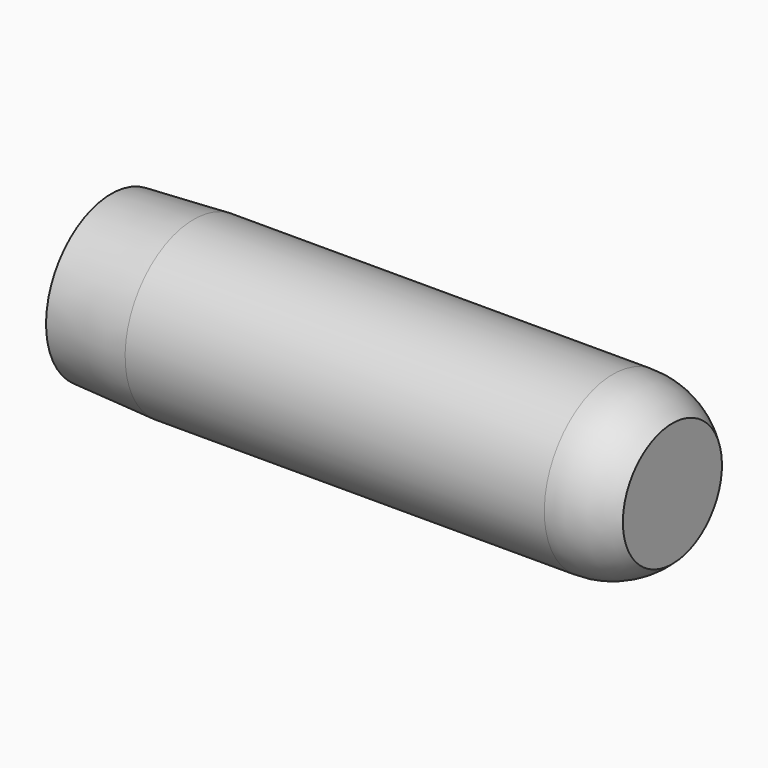
from build123d import *

# Parameters (mm, degrees)
F2_R     = 10.5
F3_DEPTH = 110


with BuildPart() as f1:
    # F0 (on Front) → F1 (revolve)
    with BuildSketch(Plane.XZ):
        with BuildLine():
            Line((170, 0), (0, 0))
            Line((0, 0), (0, -24.689806))
            Line((0, -24.689806), (25, -26))
            Line((25, -26), (152, -26))
            ThreePointArc((152, -26), (161.700432, -24.122637), (170, -18.761663))
            Line((170, -18.761663), (170, 0))
        make_face()
    revolve(axis=Axis((85, 0, 0), (1, 0, 0)))

    # F2 (on face) → F3 (cut)
    with BuildSketch(Plane(origin=(0, 0, 0), x_dir=(0, -1, 0), z_dir=(-1, 0, 0))):
        Circle(F2_R)
    extrude(amount=-F3_DEPTH, mode=Mode.SUBTRACT)

    # F4 (on Front) → F5 (revolve, cut)
    with BuildSketch(Plane.XZ):
        Polygon((110, 0), (116.309036, 0), (110, 10.5), align=None)
    revolve(axis=Axis((113.154518, 0, 0), (1, 0, 0)), mode=Mode.SUBTRACT)


solid = f1.part
